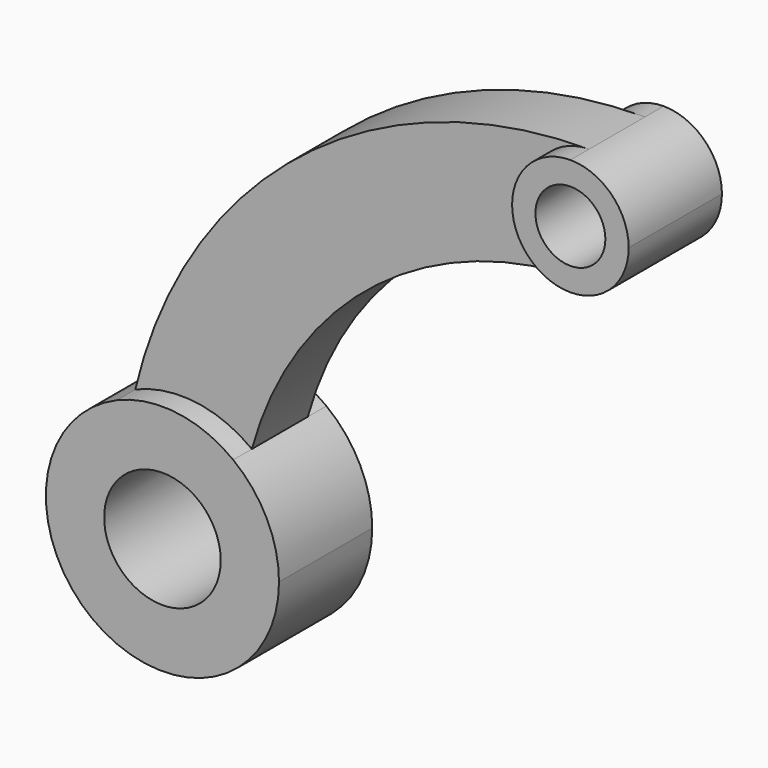
from build123d import *

# Parameters (mm, degrees)
F0_R     = 7.5
F0_R_2   = 12.5
F1_DEPTH = 12.5
F2_DEPTH = 7.5


with BuildPart() as f1:
    # F0 (on Front) → F1 (new body, symmetric)
    with BuildSketch(Plane.XZ):
        with BuildLine():
            ThreePointArc((12.5, 87.5), (8.838835, 96.338835), (0, 100))
            ThreePointArc((0, 100), (-12.5, 87.5), (0, 75))
            ThreePointArc((0, 75), (8.838835, 78.661165), (12.5, 87.5))
        make_face()
        with Locations((0, 87.5)):
            Circle(F0_R, mode=Mode.SUBTRACT)
        with BuildLine():
            ThreePointArc((-72.321429, 19.864817), (-84.398965, 24.806926), (-97.321429, 22.989988))
            ThreePointArc((-97.321429, 22.989988), (-101.274329, -20.863074), (-62.5, 0))
            ThreePointArc((-62.5, 0), (-65.089464, 11.080066), (-72.321429, 19.864817))
        make_face()
        with Locations((-87.5, 0)):
            Circle(F0_R_2, mode=Mode.SUBTRACT)
    extrude(amount=F1_DEPTH, both=True)

    # F0 (on Front) → F2 (join, symmetric)
    with BuildSketch(Plane.XZ):
        with BuildLine():
            ThreePointArc((0, 75), (-12.5, 87.5), (0, 100))
            ThreePointArc((0, 100), (-62.052402, 78.418744), (-97.321429, 22.989988))
            ThreePointArc((-97.321429, 22.989988), (-84.398965, 24.806926), (-72.321429, 19.864817))
            ThreePointArc((-72.321429, 19.864817), (-45.470533, 59.6442), (0, 75))
        make_face()
    extrude(amount=F2_DEPTH, both=True)


solid = f1.part
